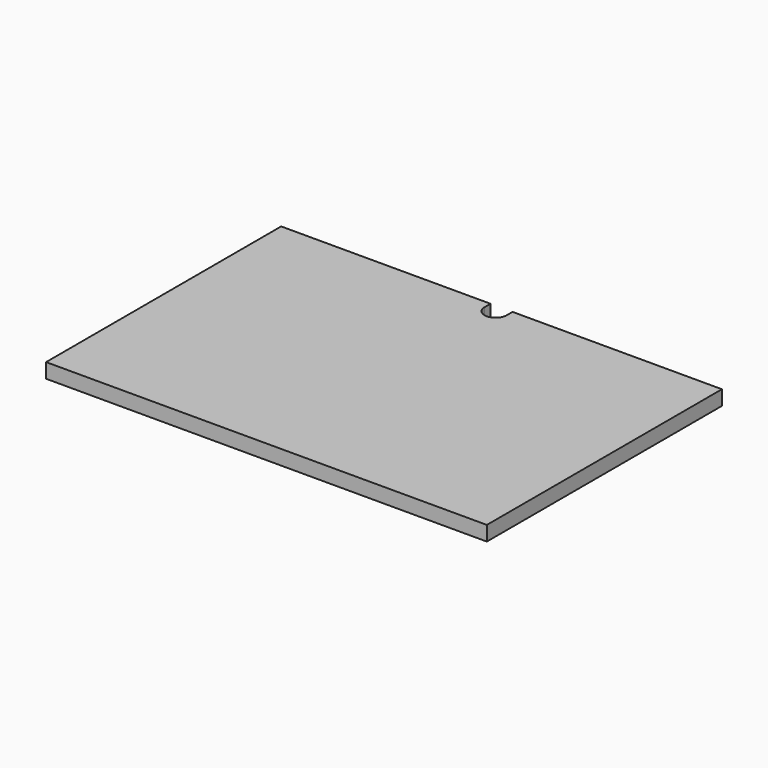
from build123d import *

# Parameters (mm, degrees)
F0_W     = 300
F0_H     = 200
F1_DEPTH = 5
F3_DEPTH = 10


with BuildPart() as f1:
    # F0 (on Top) → F1 (new body, symmetric)
    with BuildSketch(Plane.XY):
        Rectangle(F0_W, F0_H)
    extrude(amount=F1_DEPTH, both=True)

    # F2 (on face) → F3 (cut)
    with BuildSketch(Plane.XY.offset(5)):
        with BuildLine():
            Line((-7.5, 100), (-7.5, 95))
            ThreePointArc((-7.5, 95), (0, 87.5), (7.5, 95))
            Line((7.5, 95), (7.5, 100))
            Line((7.5, 100), (-7.5, 100))
        make_face()
    extrude(amount=-F3_DEPTH, mode=Mode.SUBTRACT)


solid = f1.part
